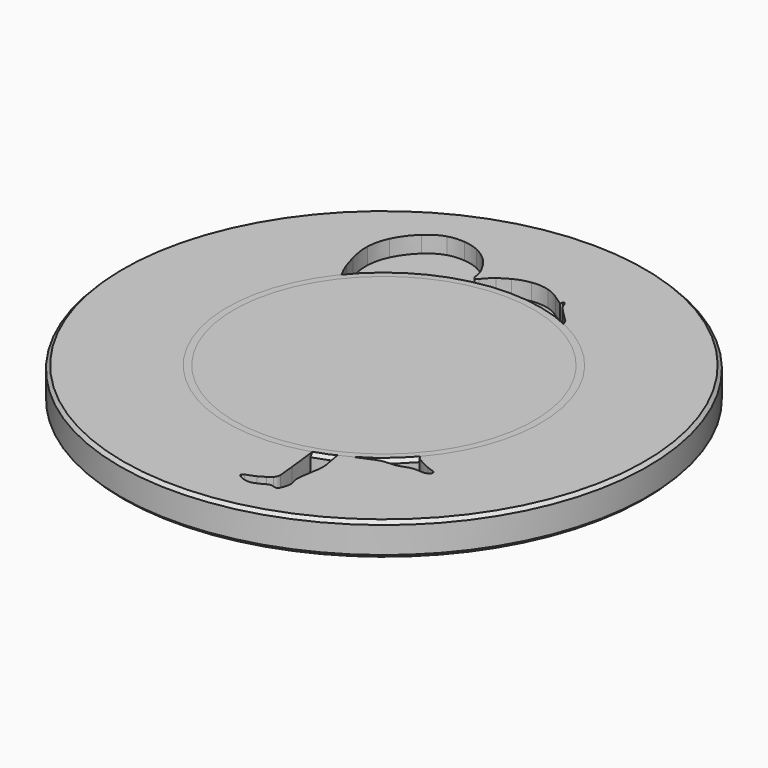
from build123d import *

# Parameters (mm, degrees)
POCKET_DEPTH = 1.25


with BuildPart() as obj1:
    # Sketch (on DatumPlane) → Revolution (revolve)
    with BuildSketch(Plane.YZ):
        Polygon((0, 0), (0, -2.5), (19.75, -2.5), (20, -2.25), (20, -0.25), (19.75, 0), align=None)
    revolve(axis=Axis((0, 0, 0), (0, 0, 1)))

    # Sketch015 → Pocket (cut)
    with BuildSketch(Plane.XY):
        with BuildLine():
            add(Edge.make_bspline(
                [(-7.398992, 15.221257), (-6.991904, 15.345717), (-6.559628, 15.359793), (-6.138094, 15.322566)],
                knots=[0, 0, 0, 0, 1, 1, 1, 1], degree=3))
            add(Edge.make_bspline(
                [(-6.138094, 15.322566), (-5.741933, 15.290525), (-5.350588, 15.189772), (-4.990913, 15.019936)],
                knots=[0, 0, 0, 0, 1, 1, 1, 1], degree=3))
            add(Edge.make_bspline(
                [(-4.990913, 15.019936), (-4.681245, 14.870472), (-4.394357, 14.677485), (-4.127287, 14.461532)],
                knots=[0, 0, 0, 0, 1, 1, 1, 1], degree=3))
            add(Edge.make_bspline(
                [(-4.127287, 14.461532), (-3.717977, 14.122786), (-3.422199, 13.671248), (-3.172353, 13.207857)],
                knots=[0, 0, 0, 0, 1, 1, 1, 1], degree=3))
            add(Edge.make_bspline(
                [(-3.172353, 13.207857), (-3.112531, 13.092658), (-3.044374, 12.980607), (-3.004184, 12.856517)],
                knots=[0, 0, 0, 0, 1, 1, 1, 1], degree=3))
            add(Edge.make_bspline(
                [(-3.004184, 12.856517), (-2.934731, 12.650936), (-2.918247, 12.433131), (-2.868426, 12.222919)],
                knots=[0, 0, 0, 0, 1, 1, 1, 1], degree=3))
            add(Edge.make_bspline(
                [(-2.868426, 12.222919), (-2.847683, 12.147169), (-2.823976, 12.055861), (-2.745818, 12.019931)],
                knots=[0, 0, 0, 0, 1, 1, 1, 1], degree=3))
            add(Edge.make_bspline(
                [(-2.745818, 12.019931), (-2.652658, 12.003262), (-2.580983, 12.08105), (-2.518197, 12.137724)],
                knots=[0, 0, 0, 0, 1, 1, 1, 1], degree=3))
            add(Edge.make_bspline(
                [(-2.518197, 12.137724), (-2.280204, 12.381087), (-2.087773, 12.671679), (-1.810146, 12.874482)],
                knots=[0, 0, 0, 0, 1, 1, 1, 1], degree=3))
            add(Edge.make_bspline(
                [(-1.810146, 12.874482), (-1.553817, 13.050615), (-1.286191, 13.210265), (-1.010046, 13.353616)],
                knots=[0, 0, 0, 0, 1, 1, 1, 1], degree=3))
            add(Edge.make_bspline(
                [(-1.010046, 13.353616), (-0.633147, 13.546048), (-0.226244, 13.682361), (0.194179, 13.737183)],
                knots=[0, 0, 0, 0, 1, 1, 1, 1], degree=3))
            add(Edge.make_bspline(
                [(0.194179, 13.737183), (0.628863, 13.806636), (1.077067, 13.777002), (1.499342, 13.652728)],
                knots=[0, 0, 0, 0, 1, 1, 1, 1], degree=3))
            add(Edge.make_bspline(
                [(1.499342, 13.652728), (1.851608, 13.566791), (2.167944, 13.381027), (2.467982, 13.182854)],
                knots=[0, 0, 0, 0, 1, 1, 1, 1], degree=3))
            add(Edge.make_bspline(
                [(2.467982, 13.182854), (2.717087, 13.024686), (2.94656, 12.837626), (3.19548, 12.679088)],
                knots=[0, 0, 0, 0, 1, 1, 1, 1], degree=3))
            add(Edge.make_bspline(
                [(3.19548, 12.679088), (3.217705, 12.752245), (3.212147, 12.830773), (3.236967, 12.90319)],
                knots=[0, 0, 0, 0, 1, 1, 1, 1], degree=3))
            add(Edge.make_bspline(
                [(3.236967, 12.90319), (3.256041, 12.938379), (3.302158, 12.936527), (3.333088, 12.918932)],
                knots=[0, 0, 0, 0, 1, 1, 1, 1], degree=3))
            add(Edge.make_bspline(
                [(3.333088, 12.918932), (3.383835, 12.89004), (3.426433, 12.844479), (3.446621, 12.788916)],
                knots=[0, 0, 0, 0, 1, 1, 1, 1], degree=3))
            add(Edge.make_bspline(
                [(3.446621, 12.788916), (3.507739, 12.634638), (3.559783, 12.472951), (3.660723, 12.338675)],
                knots=[0, 0, 0, 0, 1, 1, 1, 1], degree=3))
            add(Edge.make_bspline(
                [(3.660723, 12.338675), (3.914271, 12.037341), (4.210049, 11.7749), (4.481194, 11.489865)],
                knots=[0, 0, 0, 0, 1, 1, 1, 1], degree=3))
            add(Edge.make_bspline(
                [(4.481194, 11.489865), (4.579727, 11.384296), (4.69937, 11.300211), (4.791048, 11.18816)],
                knots=[0, 0, 0, 0, 1, 1, 1, 1], degree=3))
            add(Edge.make_bspline(
                [(4.791048, 11.18816), (4.924399, 11.026474), (4.979962, 10.818114), (5.014224, 10.615311)],
                knots=[0, 0, 0, 0, 1, 1, 1, 1], degree=3))
            add(Edge.make_bspline(
                [(5.014224, 10.615311), (5.050895, 10.38769), (5.084786, 10.158773), (5.092196, 9.928003)],
                knots=[0, 0, 0, 0, 1, 1, 1, 1], degree=3))
            add(Edge.make_bspline(
                [(5.092196, 9.928003), (5.134981, 9.13846), (5.152204, 8.347805), (5.199062, 7.558633)],
                knots=[0, 0, 0, 0, 1, 1, 1, 1], degree=3))
            add(Edge.make_bspline(
                [(5.199062, 7.558633), (5.204618, 7.428246), (5.244808, 7.300638), (5.310001, 7.187846)],
                knots=[0, 0, 0, 0, 1, 1, 1, 1], degree=3))
            add(Edge.make_bspline(
                [(5.310001, 7.187846), (5.334451, 7.145063), (5.37964, 7.106539), (5.432609, 7.118578)],
                knots=[0, 0, 0, 0, 1, 1, 1, 1], degree=3))
            add(Edge.make_bspline(
                [(5.432609, 7.118578), (5.520398, 7.138395), (5.59763, 7.188957), (5.684307, 7.213775)],
                knots=[0, 0, 0, 0, 1, 1, 1, 1], degree=3))
            add(Edge.make_bspline(
                [(5.684307, 7.213775), (5.808584, 7.266374), (5.95286, 7.30286), (6.036388, 7.417504)],
                knots=[0, 0, 0, 0, 1, 1, 1, 1], degree=3))
            add(Edge.make_bspline(
                [(6.036388, 7.417504), (6.068615, 7.459917), (6.123623, 7.478993), (6.175665, 7.466584)],
                knots=[0, 0, 0, 0, 1, 1, 1, 1], degree=3))
            add(Edge.make_bspline(
                [(6.175665, 7.466584), (6.354576, 7.437877), (6.528117, 7.382314), (6.697584, 7.318788)],
                knots=[0, 0, 0, 0, 1, 1, 1, 1], degree=3))
            add(Edge.make_bspline(
                [(6.697584, 7.318788), (6.892977, 7.243593), (7.088003, 7.154693), (7.245986, 7.01412)],
                knots=[0, 0, 0, 0, 1, 1, 1, 1], degree=3))
            add(Edge.make_bspline(
                [(7.245986, 7.01412), (7.566952, 6.734456), (7.763828, 6.342925), (7.899401, 5.946024)],
                knots=[0, 0, 0, 0, 1, 1, 1, 1], degree=3))
            add(Edge.make_bspline(
                [(7.899401, 5.946024), (7.990336, 5.647098), (8.002747, 5.32965), (7.989783, 5.019426)],
                knots=[0, 0, 0, 0, 1, 1, 1, 1], degree=3))
            add(Edge.make_bspline(
                [(7.989783, 5.019426), (7.989227, 4.88052), (7.934405, 4.749948), (7.921811, 4.612339)],
                knots=[0, 0, 0, 0, 1, 1, 1, 1], degree=3))
            add(Edge.make_bspline(
                [(7.921811, 4.612339), (7.904772, 4.47547), (7.937183, 4.339712), (7.949592, 4.203954)],
                knots=[0, 0, 0, 0, 1, 1, 1, 1], degree=3))
            add(Edge.make_bspline(
                [(7.949592, 4.203954), (7.966076, 3.998929), (7.93422, 3.794644), (7.915699, 3.590915)],
                knots=[0, 0, 0, 0, 1, 1, 1, 1], degree=3))
            add(Edge.make_bspline(
                [(7.915699, 3.590915), (7.882362, 3.282172), (7.846985, 2.9738), (7.807351, 2.665799)],
                knots=[0, 0, 0, 0, 1, 1, 1, 1], degree=3))
            add(Edge.make_bspline(
                [(7.807351, 2.665799), (7.793277, 2.534857), (7.736788, 2.410952), (7.737529, 2.277973)],
                knots=[0, 0, 0, 0, 1, 1, 1, 1], degree=3))
            add(Edge.make_bspline(
                [(7.737529, 2.277973), (7.736973, 2.108878), (7.775865, 1.939412), (7.852543, 1.788467)],
                knots=[0, 0, 0, 0, 1, 1, 1, 1], degree=3))
            add(Edge.make_bspline(
                [(7.852543, 1.788467), (7.899771, 1.686973), (7.984967, 1.611593), (8.061088, 1.531954)],
                knots=[0, 0, 0, 0, 1, 1, 1, 1], degree=3))
            add(Edge.make_bspline(
                [(8.061088, 1.531954), (8.220552, 1.370822), (8.392055, 1.221174), (8.542815, 1.051153)],
                knots=[0, 0, 0, 0, 1, 1, 1, 1], degree=3))
            add(Edge.make_bspline(
                [(8.542815, 1.051153), (8.573557, 1.014296), (8.607267, 0.975032), (8.614861, 0.925581)],
                knots=[0, 0, 0, 0, 1, 1, 1, 1], degree=3))
            add(Edge.make_bspline(
                [(8.614861, 0.925581), (8.610416, 0.874464), (8.555777, 0.852793), (8.510959, 0.856312)],
                knots=[0, 0, 0, 0, 1, 1, 1, 1], degree=3))
            add(Edge.make_bspline(
                [(8.510959, 0.856312), (8.361309, 0.864276), (8.216478, 0.930025), (8.065533, 0.911504)],
                knots=[0, 0, 0, 0, 1, 1, 1, 1], degree=3))
            add(Edge.make_bspline(
                [(8.065533, 0.911504), (8.024787, 0.909096), (7.996635, 0.872795), (7.998302, 0.833346)],
                knots=[0, 0, 0, 0, 1, 1, 1, 1], degree=3))
            add(Edge.make_bspline(
                [(7.998302, 0.833346), (7.983671, 0.577758), (8.079609, 0.327542), (8.052752, 0.071584)],
                knots=[0, 0, 0, 0, 1, 1, 1, 1], degree=3))
            add(Edge.make_bspline(
                [(8.052752, 0.071584), (8.045714, 0.008613), (8.004783, -0.058803), (7.936996, -0.067322)],
                knots=[0, 0, 0, 0, 1, 1, 1, 1], degree=3))
            add(Edge.make_bspline(
                [(7.936996, -0.067322), (7.80939, -0.082695), (7.690856, -0.019539), (7.577879, 0.030283)],
                knots=[0, 0, 0, 0, 1, 1, 1, 1], degree=3))
            add(Edge.make_bspline(
                [(7.577879, 0.030283), (7.463048, 0.080289), (7.358591, 0.156039), (7.236538, 0.187524)],
                knots=[0, 0, 0, 0, 1, 1, 1, 1], degree=3))
            add(Edge.make_bspline(
                [(7.236538, 0.187524), (7.227463, 0.099736), (7.259504, 0.013429), (7.247094, -0.074175)],
                knots=[0, 0, 0, 0, 1, 1, 1, 1], degree=3))
            add(Edge.make_bspline(
                [(7.247094, -0.074175), (7.240056, -0.116402), (7.202831, -0.151962), (7.158936, -0.14937)],
                knots=[0, 0, 0, 0, 1, 1, 1, 1], degree=3))
            add(Edge.make_bspline(
                [(7.158936, -0.14937), (7.060589, -0.141406), (6.966134, -0.109735), (6.872417, -0.081583)],
                knots=[0, 0, 0, 0, 1, 1, 1, 1], degree=3))
            add(Edge.make_bspline(
                [(6.872417, -0.081583), (6.675726, -0.017131), (6.48237, 0.059175), (6.301235, 0.159558)],
                knots=[0, 0, 0, 0, 1, 1, 1, 1], degree=3))
            add(Edge.make_bspline(
                [(6.301235, 0.159558), (6.169181, 0.231419), (6.03898, 0.313096), (5.938965, 0.427184)],
                knots=[0, 0, 0, 0, 1, 1, 1, 1], degree=3))
            add(Edge.make_bspline(
                [(5.938965, 0.427184), (5.723938, 0.665918), (5.598554, 0.966696), (5.472798, 1.258029)],
                knots=[0, 0, 0, 0, 1, 1, 1, 1], degree=3))
            add(Edge.make_bspline(
                [(5.472798, 1.258029), (5.436865, 1.335816), (5.418902, 1.419901), (5.399824, 1.502689)],
                knots=[0, 0, 0, 0, 1, 1, 1, 1], degree=3))
            add(Edge.make_bspline(
                [(5.399824, 1.502689), (5.214062, 1.121345), (5.059042, 0.72611), (4.895872, 0.33458)],
                knots=[0, 0, 0, 0, 1, 1, 1, 1], degree=3))
            add(Edge.make_bspline(
                [(4.895872, 0.33458), (4.780487, 0.057879), (4.674916, -0.222897), (4.566201, -0.502377)],
                knots=[0, 0, 0, 0, 1, 1, 1, 1], degree=3))
            add(Edge.make_bspline(
                [(4.566201, -0.502377), (4.478412, -0.735184), (4.388959, -0.968361), (4.327469, -1.209687)],
                knots=[0, 0, 0, 0, 1, 1, 1, 1], degree=3))
            add(Edge.make_bspline(
                [(4.327469, -1.209687), (4.297834, -1.397674), (4.338582, -1.59029), (4.412665, -1.76346)],
                knots=[0, 0, 0, 0, 1, 1, 1, 1], degree=3))
            add(Edge.make_bspline(
                [(4.412665, -1.76346), (4.469709, -1.893847), (4.527865, -2.02553), (4.614726, -2.139433)],
                knots=[0, 0, 0, 0, 1, 1, 1, 1], degree=3))
            add(Edge.make_bspline(
                [(4.614726, -2.139433), (4.860497, -2.476512), (5.14146, -2.785995), (5.394084, -3.118074)],
                knots=[0, 0, 0, 0, 1, 1, 1, 1], degree=3))
            add(Edge.make_bspline(
                [(5.394084, -3.118074), (5.628741, -3.416445), (5.755426, -3.803898), (5.71968, -4.183761)],
                knots=[0, 0, 0, 0, 1, 1, 1, 1], degree=3))
            add(Edge.make_bspline(
                [(5.71968, -4.183761), (5.645412, -4.757721), (5.496875, -5.318717), (5.404087, -5.889346)],
                knots=[0, 0, 0, 0, 1, 1, 1, 1], degree=3))
            add(Edge.make_bspline(
                [(5.404087, -5.889346), (5.377788, -5.988803), (5.464649, -6.058625), (5.502616, -6.140116)],
                knots=[0, 0, 0, 0, 1, 1, 1, 1], degree=3))
            add(Edge.make_bspline(
                [(5.502616, -6.140116), (5.525952, -6.182344), (5.504468, -6.246796), (5.453166, -6.253834)],
                knots=[0, 0, 0, 0, 1, 1, 1, 1], degree=3))
            add(Edge.make_bspline(
                [(5.453166, -6.253834), (5.287404, -6.270688), (5.120717, -6.214755), (4.956252, -6.247352)],
                knots=[0, 0, 0, 0, 1, 1, 1, 1], degree=3))
            add(Edge.make_bspline(
                [(4.956252, -6.247352), (4.903652, -6.251241), (4.886613, -6.309026), (4.894392, -6.353661)],
                knots=[0, 0, 0, 0, 1, 1, 1, 1], degree=3))
            add(Edge.make_bspline(
                [(4.894392, -6.353661), (4.909022, -6.484602), (4.970883, -6.608693), (4.96051, -6.742969)],
                knots=[0, 0, 0, 0, 1, 1, 1, 1], degree=3))
            add(Edge.make_bspline(
                [(4.96051, -6.742969), (4.932543, -7.194322), (4.86346, -7.642339), (4.848275, -8.09462)],
                knots=[0, 0, 0, 0, 1, 1, 1, 1], degree=3))
            add(Edge.make_bspline(
                [(4.848275, -8.09462), (4.84346, -8.293534), (4.793822, -8.488373), (4.792527, -8.687472)],
                knots=[0, 0, 0, 0, 1, 1, 1, 1], degree=3))
            add(Edge.make_bspline(
                [(4.792527, -8.687472), (4.793454, -8.778963), (4.815493, -8.890645), (4.907542, -8.933428)],
                knots=[0, 0, 0, 0, 1, 1, 1, 1], degree=3))
            add(Edge.make_bspline(
                [(4.907542, -8.933428), (4.999776, -8.968616), (5.102011, -8.952503), (5.197208, -8.938612)],
                knots=[0, 0, 0, 0, 1, 1, 1, 1], degree=3))
            add(Edge.make_bspline(
                [(5.197208, -8.938612), (5.488355, -8.888793), (5.770983, -8.793781), (6.065464, -8.762111)],
                knots=[0, 0, 0, 0, 1, 1, 1, 1], degree=3))
            add(Edge.make_bspline(
                [(6.065464, -8.762111), (6.516447, -8.715623), (6.969464, -8.693028), (7.420263, -8.643948)],
                knots=[0, 0, 0, 0, 1, 1, 1, 1], degree=3))
            add(Edge.make_bspline(
                [(7.420263, -8.643948), (7.578429, -8.625981), (7.737525, -8.608758), (7.892545, -8.571159)],
                knots=[0, 0, 0, 0, 1, 1, 1, 1], degree=3))
            add(Edge.make_bspline(
                [(7.892545, -8.571159), (8.01719, -8.541526), (8.109794, -8.444476), (8.191286, -8.351687)],
                knots=[0, 0, 0, 0, 1, 1, 1, 1], degree=3))
            add(Edge.make_bspline(
                [(8.191286, -8.351687), (8.268886, -8.259268), (8.334822, -8.157404), (8.39057, -8.050538)],
                knots=[0, 0, 0, 0, 1, 1, 1, 1], degree=3))
            add(Edge.make_bspline(
                [(8.39057, -8.050538), (8.432795, -7.969232), (8.395383, -7.86107), (8.464097, -7.791247)],
                knots=[0, 0, 0, 0, 1, 1, 1, 1], degree=3))
            add(Edge.make_bspline(
                [(8.464097, -7.791247), (8.536697, -7.727718), (8.638932, -7.719386), (8.731166, -7.711424)],
                knots=[0, 0, 0, 0, 1, 1, 1, 1], degree=3))
            add(Edge.make_bspline(
                [(8.731166, -7.711424), (8.822661, -7.708646), (8.933228, -7.716978), (8.991199, -7.799027)],
                knots=[0, 0, 0, 0, 1, 1, 1, 1], degree=3))
            add(Edge.make_bspline(
                [(8.991199, -7.799027), (9.043057, -7.877), (9.06343, -7.978865), (9.1477, -8.03239)],
                knots=[0, 0, 0, 0, 1, 1, 1, 1], degree=3))
            add(Edge.make_bspline(
                [(9.1477, -8.03239), (9.469223, -8.266678), (9.830009, -8.442811), (10.198018, -8.591163)],
                knots=[0, 0, 0, 0, 1, 1, 1, 1], degree=3))
            add(Edge.make_bspline(
                [(10.198018, -8.591163), (10.35952, -8.652651), (10.514909, -8.733401), (10.68456, -8.771001)],
                knots=[0, 0, 0, 0, 1, 1, 1, 1], degree=3))
            add(Edge.make_bspline(
                [(10.68456, -8.771001), (10.741417, -8.786558), (10.806427, -8.804153), (10.839024, -8.858234)],
                knots=[0, 0, 0, 0, 1, 1, 1, 1], degree=3))
            add(Edge.make_bspline(
                [(10.839024, -8.858234), (10.896809, -8.958617), (10.874214, -9.10845), (10.7692, -9.168828)],
                knots=[0, 0, 0, 0, 1, 1, 1, 1], degree=3))
            add(Edge.make_bspline(
                [(10.7692, -9.168828), (10.673633, -9.224761), (10.564916, -9.257358), (10.456198, -9.274767)],
                knots=[0, 0, 0, 0, 1, 1, 1, 1], degree=3))
            add(Edge.make_bspline(
                [(10.456198, -9.274767), (10.20913, -9.287919), (9.962618, -9.238652), (9.71555, -9.260691)],
                knots=[0, 0, 0, 0, 1, 1, 1, 1], degree=3))
            add(Edge.make_bspline(
                [(9.71555, -9.260691), (9.351431, -9.286621), (9.018056, -9.448122), (8.672829, -9.55147)],
                knots=[0, 0, 0, 0, 1, 1, 1, 1], degree=3))
            add(Edge.make_bspline(
                [(8.672829, -9.55147), (8.559296, -9.584621), (8.440206, -9.585549), (8.323156, -9.592029)],
                knots=[0, 0, 0, 0, 1, 1, 1, 1], degree=3))
            add(Edge.make_bspline(
                [(8.323156, -9.592029), (8.08831, -9.615365), (7.851428, -9.619071), (7.618623, -9.659815)],
                knots=[0, 0, 0, 0, 1, 1, 1, 1], degree=3))
            add(Edge.make_bspline(
                [(7.618623, -9.659815), (7.280988, -9.713896), (6.976876, -9.878545), (6.666095, -10.011526)],
                knots=[0, 0, 0, 0, 1, 1, 1, 1], degree=3))
            add(Edge.make_bspline(
                [(6.666095, -10.011526), (6.283827, -10.184138), (5.882666, -10.308972), (5.492615, -10.462138)],
                knots=[0, 0, 0, 0, 1, 1, 1, 1], degree=3))
            add(Edge.make_bspline(
                [(5.492615, -10.462138), (5.359265, -10.514739), (5.222396, -10.559928), (5.094602, -10.625121)],
                knots=[0, 0, 0, 0, 1, 1, 1, 1], degree=3))
            add(Edge.make_bspline(
                [(5.094602, -10.625121), (5.029779, -10.649382), (5.04793, -10.731616), (5.072192, -10.780326)],
                knots=[0, 0, 0, 0, 1, 1, 1, 1], degree=3))
            add(Edge.make_bspline(
                [(5.072192, -10.780326), (5.165537, -11.222048), (5.255178, -11.665805), (5.307592, -12.114752)],
                knots=[0, 0, 0, 0, 1, 1, 1, 1], degree=3))
            add(Edge.make_bspline(
                [(5.307592, -12.114752), (5.356672, -12.504243), (5.305369, -12.897072), (5.231286, -13.280081)],
                knots=[0, 0, 0, 0, 1, 1, 1, 1], degree=3))
            add(Edge.make_bspline(
                [(5.231286, -13.280081), (5.187762, -13.501221), (5.169056, -13.725879), (5.13257, -13.948129)],
                knots=[0, 0, 0, 0, 1, 1, 1, 1], degree=3))
            add(Edge.make_bspline(
                [(5.13257, -13.948129), (5.092935, -14.201122), (5.048671, -14.458006), (5.079415, -14.714705)],
                knots=[0, 0, 0, 0, 1, 1, 1, 1], degree=3))
            add(Edge.make_bspline(
                [(5.079415, -14.714705), (5.105159, -14.900469), (5.180724, -15.074751), (5.209985, -15.259775)],
                knots=[0, 0, 0, 0, 1, 1, 1, 1], degree=3))
            add(Edge.make_bspline(
                [(5.209985, -15.259775), (5.232768, -15.503694), (5.161646, -15.745946), (5.066819, -15.968567)],
                knots=[0, 0, 0, 0, 1, 1, 1, 1], degree=3))
            add(Edge.make_bspline(
                [(5.066819, -15.968567), (5.023295, -16.064875), (4.985883, -16.177482), (4.887539, -16.232118)],
                knots=[0, 0, 0, 0, 1, 1, 1, 1], degree=3))
            add(Edge.make_bspline(
                [(4.887539, -16.232118), (4.81438, -16.275085), (4.728444, -16.245453), (4.653066, -16.226194)],
                knots=[0, 0, 0, 0, 1, 1, 1, 1], degree=3))
            add(Edge.make_bspline(
                [(4.653066, -16.226194), (4.527124, -16.188967), (4.39433, -16.153034), (4.26283, -16.182299)],
                knots=[0, 0, 0, 0, 1, 1, 1, 1], degree=3))
            add(Edge.make_bspline(
                [(4.26283, -16.182299), (4.091512, -16.225638), (3.960199, -16.354356), (3.796847, -16.416586)],
                knots=[0, 0, 0, 0, 1, 1, 1, 1], degree=3))
            add(Edge.make_bspline(
                [(3.796847, -16.416586), (3.593489, -16.492153), (3.401428, -16.603092), (3.185475, -16.639391)],
                knots=[0, 0, 0, 0, 1, 1, 1, 1], degree=3))
            add(Edge.make_bspline(
                [(3.185475, -16.639391), (2.996563, -16.675509), (2.805242, -16.627723), (2.62522, -16.572716)],
                knots=[0, 0, 0, 0, 1, 1, 1, 1], degree=3))
            add(Edge.make_bspline(
                [(2.62522, -16.572716), (2.485017, -16.525116), (2.342036, -16.472704), (2.225355, -16.379174)],
                knots=[0, 0, 0, 0, 1, 1, 1, 1], degree=3))
            add(Edge.make_bspline(
                [(2.225355, -16.379174), (2.177757, -16.339908), (2.12775, -16.280641), (2.147938, -16.214892)],
                knots=[0, 0, 0, 0, 1, 1, 1, 1], degree=3))
            add(Edge.make_bspline(
                [(2.147938, -16.214892), (2.174238, -16.14507), (2.247024, -16.110805), (2.310181, -16.081172)],
                knots=[0, 0, 0, 0, 1, 1, 1, 1], degree=3))
            add(Edge.make_bspline(
                [(2.310181, -16.081172), (2.542247, -15.98227), (2.792093, -15.925967), (3.014528, -15.804472)],
                knots=[0, 0, 0, 0, 1, 1, 1, 1], degree=3))
            add(Edge.make_bspline(
                [(3.014528, -15.804472), (3.185105, -15.71057), (3.354015, -15.613521), (3.519961, -15.511471)],
                knots=[0, 0, 0, 0, 1, 1, 1, 1], degree=3))
            add(Edge.make_bspline(
                [(3.519961, -15.511471), (3.634607, -15.439241), (3.752397, -15.365712), (3.839445, -15.259773)],
                knots=[0, 0, 0, 0, 1, 1, 1, 1], degree=3))
            add(Edge.make_bspline(
                [(3.839445, -15.259773), (3.946496, -15.139202), (4.023359, -14.980666), (4.010578, -14.816386)],
                knots=[0, 0, 0, 0, 1, 1, 1, 1], degree=3))
            add(Edge.make_bspline(
                [(4.010578, -14.816386), (3.99039, -14.405221), (3.936495, -13.996654), (3.891306, -13.587712)],
                knots=[0, 0, 0, 0, 1, 1, 1, 1], degree=3))
            add(Edge.make_bspline(
                [(3.891306, -13.587712), (3.781475, -12.708528), (3.709246, -11.824529), (3.587934, -10.947199)],
                knots=[0, 0, 0, 0, 1, 1, 1, 1], degree=3))
            add(Edge.make_bspline(
                [(3.587934, -10.947199), (3.33957, -10.964979), (3.088243, -11.013316), (2.840063, -10.968312)],
                knots=[0, 0, 0, 0, 1, 1, 1, 1], degree=3))
            add(Edge.make_bspline(
                [(2.840063, -10.968312), (2.694119, -10.944791), (2.567622, -10.853481), (2.475203, -10.741617)],
                knots=[0, 0, 0, 0, 1, 1, 1, 1], degree=3))
            add(Edge.make_bspline(
                [(2.475203, -10.741617), (2.355929, -10.595118), (2.292958, -10.413611), (2.239433, -10.235071)],
                knots=[0, 0, 0, 0, 1, 1, 1, 1], degree=3))
            add(Edge.make_bspline(
                [(2.239433, -10.235071), (2.182203, -10.064679), (2.199243, -9.882436), (2.192946, -9.705932)],
                knots=[0, 0, 0, 0, 1, 1, 1, 1], degree=3))
            add(Edge.make_bspline(
                [(2.192946, -9.705932), (2.194242, -8.643392), (2.24999, -7.582148), (2.266288, -6.519979)],
                knots=[0, 0, 0, 0, 1, 1, 1, 1], degree=3))
            add(Edge.make_bspline(
                [(2.266288, -6.519979), (2.265918, -6.424596), (2.269066, -6.328658), (2.257954, -6.234019)],
                knots=[0, 0, 0, 0, 1, 1, 1, 1], degree=3))
            add(Edge.make_bspline(
                [(2.257954, -6.234019), (2.23684, -6.124188), (2.137013, -6.05918), (2.064596, -5.983802)],
                knots=[0, 0, 0, 0, 1, 1, 1, 1], degree=3))
            add(Edge.make_bspline(
                [(2.064596, -5.983802), (1.990513, -5.911941), (1.941062, -5.807854), (1.960879, -5.703397)],
                knots=[0, 0, 0, 0, 1, 1, 1, 1], degree=3))
            add(Edge.make_bspline(
                [(1.960879, -5.703397), (1.993106, -5.461885), (2.061818, -5.227595), (2.113491, -4.989974)],
                knots=[0, 0, 0, 0, 1, 1, 1, 1], degree=3))
            add(Edge.make_bspline(
                [(2.113491, -4.989974), (2.14368, -4.847551), (2.183685, -4.704754), (2.183315, -4.558439)],
                knots=[0, 0, 0, 0, 1, 1, 1, 1], degree=3))
            add(Edge.make_bspline(
                [(2.183315, -4.558439), (2.171648, -4.436201), (2.055893, -4.369714), (1.973474, -4.295258)],
                knots=[0, 0, 0, 0, 1, 1, 1, 1], degree=3))
            add(Edge.make_bspline(
                [(1.973474, -4.295258), (1.844754, -4.187654), (1.797711, -4.014852), (1.786784, -3.853721)],
                knots=[0, 0, 0, 0, 1, 1, 1, 1], degree=3))
            add(Edge.make_bspline(
                [(1.786784, -3.853721), (1.779746, -3.736853), (1.776227, -3.619803), (1.779375, -3.502935)],
                knots=[0, 0, 0, 0, 1, 1, 1, 1], degree=3))
            add(Edge.make_bspline(
                [(1.779375, -3.502935), (1.798452, -3.286241), (1.840679, -3.068066), (1.806416, -2.850631)],
                knots=[0, 0, 0, 0, 1, 1, 1, 1], degree=3))
            add(Edge.make_bspline(
                [(1.806416, -2.850631), (1.766596, -2.615046), (1.68992, -2.387981), (1.631579, -2.156841)],
                knots=[0, 0, 0, 0, 1, 1, 1, 1], degree=3))
            add(Edge.make_bspline(
                [(1.631579, -2.156841), (1.568608, -1.929035), (1.586573, -1.686782), (1.63232, -1.457494)],
                knots=[0, 0, 0, 0, 1, 1, 1, 1], degree=3))
            add(Edge.make_bspline(
                [(1.63232, -1.457494), (1.648435, -1.362853), (1.710478, -1.285806), (1.736777, -1.194869)],
                knots=[0, 0, 0, 0, 1, 1, 1, 1], degree=3))
            add(Edge.make_bspline(
                [(1.736777, -1.194869), (1.769559, -1.047999), (1.686401, -0.905018), (1.706403, -0.758333)],
                knots=[0, 0, 0, 0, 1, 1, 1, 1], degree=3))
            add(Edge.make_bspline(
                [(1.706403, -0.758333), (1.723442, -0.68073), (1.816973, -0.666655), (1.852533, -0.604425)],
                knots=[0, 0, 0, 0, 1, 1, 1, 1], degree=3))
            add(Edge.make_bspline(
                [(1.852533, -0.604425), (1.8592, -0.5246), (1.8016, -0.452369), (1.813083, -0.371247)],
                knots=[0, 0, 0, 0, 1, 1, 1, 1], degree=3))
            add(Edge.make_bspline(
                [(1.813083, -0.371247), (1.826418, -0.248639), (1.941247, -0.170111), (1.965324, -0.051207)],
                knots=[0, 0, 0, 0, 1, 1, 1, 1], degree=3))
            add(Edge.make_bspline(
                [(1.965324, -0.051207), (1.989402, 0.068808), (1.943099, 0.189934), (1.963658, 0.310319)],
                knots=[0, 0, 0, 0, 1, 1, 1, 1], degree=3))
            add(Edge.make_bspline(
                [(1.963658, 0.310319), (1.996995, 0.544608), (2.040519, 0.77797), (2.097934, 1.007629)],
                knots=[0, 0, 0, 0, 1, 1, 1, 1], degree=3))
            add(Edge.make_bspline(
                [(2.097934, 1.007629), (2.107194, 1.065969), (2.165164, 1.08912), (2.213133, 1.108567)],
                knots=[0, 0, 0, 0, 1, 1, 1, 1], degree=3))
            add(Edge.make_bspline(
                [(2.213133, 1.108567), (2.113862, 1.25803), (1.998662, 1.398604), (1.925875, 1.563809)],
                knots=[0, 0, 0, 0, 1, 1, 1, 1], degree=3))
            add(Edge.make_bspline(
                [(1.925875, 1.563809), (1.847532, 1.735683), (1.760854, 1.915335), (1.777523, 2.109618)],
                knots=[0, 0, 0, 0, 1, 1, 1, 1], degree=3))
            add(Edge.make_bspline(
                [(1.777523, 2.109618), (1.796414, 2.373911), (1.988105, 2.575973), (2.075894, 2.816003)],
                knots=[0, 0, 0, 0, 1, 1, 1, 1], degree=3))
            add(Edge.make_bspline(
                [(2.075894, 2.816003), (1.639358, 2.751736), (1.207637, 2.656909), (0.76999, 2.599494)],
                knots=[0, 0, 0, 0, 1, 1, 1, 1], degree=3))
            add(Edge.make_bspline(
                [(0.76999, 2.599494), (0.572187, 2.566342), (0.373274, 2.634314), (0.175471, 2.600235)],
                knots=[0, 0, 0, 0, 1, 1, 1, 1], degree=3))
            add(Edge.make_bspline(
                [(0.175471, 2.600235), (-0.006033, 2.570602), (-0.16309, 2.468737), (-0.326258, 2.390765)],
                knots=[0, 0, 0, 0, 1, 1, 1, 1], degree=3))
            add(Edge.make_bspline(
                [(-0.326258, 2.390765), (-0.53647, 2.282418), (-0.765017, 2.218336), (-0.988561, 2.144623)],
                knots=[0, 0, 0, 0, 1, 1, 1, 1], degree=3))
            add(Edge.make_bspline(
                [(-0.988561, 2.144623), (-1.443433, 1.998679), (-1.914788, 1.905148), (-2.390774, 1.865329)],
                knots=[0, 0, 0, 0, 1, 1, 1, 1], degree=3))
            add(Edge.make_bspline(
                [(-2.390774, 1.865329), (-2.86787, 1.819582), (-3.346819, 1.798098), (-3.824286, 1.759575)],
                knots=[0, 0, 0, 0, 1, 1, 1, 1], degree=3))
            add(Edge.make_bspline(
                [(-3.824286, 1.759575), (-4.188221, 1.757723), (-4.554933, 1.726237), (-4.91646, 1.779948)],
                knots=[0, 0, 0, 0, 1, 1, 1, 1], degree=3))
            add(Edge.make_bspline(
                [(-4.91646, 1.779948), (-5.09037, 1.811064), (-5.264837, 1.841622), (-5.434858, 1.890146)],
                knots=[0, 0, 0, 0, 1, 1, 1, 1], degree=3))
            add(Edge.make_bspline(
                [(-5.434858, 1.890146), (-5.57432, 1.931263), (-5.716189, 1.990529), (-5.813979, 2.102395)],
                knots=[0, 0, 0, 0, 1, 1, 1, 1], degree=3))
            add(Edge.make_bspline(
                [(-5.813979, 2.102395), (-5.90325, 2.205556), (-5.976037, 2.323719), (-6.02345, 2.451513)],
                knots=[0, 0, 0, 0, 1, 1, 1, 1], degree=3))
            add(Edge.make_bspline(
                [(-6.02345, 2.451513), (-6.043082, 2.510594), (-6.062158, 2.576714), (-6.038822, 2.637462)],
                knots=[0, 0, 0, 0, 1, 1, 1, 1], degree=3))
            add(Edge.make_bspline(
                [(-6.038822, 2.637462), (-6.017153, 2.681727), (-5.962146, 2.695062), (-5.916955, 2.685246)],
                knots=[0, 0, 0, 0, 1, 1, 1, 1], degree=3))
            add(Edge.make_bspline(
                [(-5.916955, 2.685246), (-5.75712, 2.658576), (-5.613399, 2.57801), (-5.459491, 2.530782)],
                knots=[0, 0, 0, 0, 1, 1, 1, 1], degree=3))
            add(Edge.make_bspline(
                [(-5.459491, 2.530782), (-5.38337, 2.512076), (-5.306508, 2.495407), (-5.229647, 2.478553)],
                knots=[0, 0, 0, 0, 1, 1, 1, 1], degree=3))
            add(Edge.make_bspline(
                [(-5.229647, 2.478553), (-5.97863, 3.200681), (-6.743355, 3.913177), (-7.396214, 4.726242)],
                knots=[0, 0, 0, 0, 1, 1, 1, 1], degree=3))
            add(Edge.make_bspline(
                [(-7.396214, 4.726242), (-7.857198, 5.327428), (-8.289103, 5.951024), (-8.692302, 6.592586)],
                knots=[0, 0, 0, 0, 1, 1, 1, 1], degree=3))
            add(Edge.make_bspline(
                [(-8.692302, 6.592586), (-9.087166, 7.233407), (-9.458694, 7.894045), (-9.723172, 8.6008)],
                knots=[0, 0, 0, 0, 1, 1, 1, 1], degree=3))
            add(Edge.make_bspline(
                [(-9.723172, 8.6008), (-9.838927, 8.937509), (-9.94394, 9.278292), (-10.037285, 9.621854)],
                knots=[0, 0, 0, 0, 1, 1, 1, 1], degree=3))
            add(Edge.make_bspline(
                [(-10.037285, 9.621854), (-10.176562, 10.155809), (-10.28139, 10.705508), (-10.260461, 11.259651)],
                knots=[0, 0, 0, 0, 1, 1, 1, 1], degree=3))
            add(Edge.make_bspline(
                [(-10.260461, 11.259651), (-10.237495, 11.815831), (-10.108961, 12.371086), (-9.864671, 12.87263)],
                knots=[0, 0, 0, 0, 1, 1, 1, 1], degree=3))
            add(Edge.make_bspline(
                [(-9.864671, 12.87263), (-9.583525, 13.461407), (-9.180696, 13.988881), (-8.706007, 14.434862)],
                knots=[0, 0, 0, 0, 1, 1, 1, 1], degree=3))
            add(Edge.make_bspline(
                [(-8.706007, 14.434862), (-8.332072, 14.783795), (-7.893128, 15.076054), (-7.398992, 15.221257)],
                knots=[0, 0, 0, 0, 1, 1, 1, 1], degree=3))
        make_face()
        with BuildLine():
            add(Edge.make_bspline(
                [(4.117817, 10.827189), (4.116706, 10.631609), (4.11152, 10.436029), (4.102632, 10.240635)],
                knots=[0, 0, 0, 0, 1, 1, 1, 1], degree=3))
            add(Edge.make_bspline(
                [(4.102632, 10.240635), (4.074851, 9.743906), (4.035772, 9.245325), (3.928166, 8.758412)],
                knots=[0, 0, 0, 0, 1, 1, 1, 1], degree=3))
            add(Edge.make_bspline(
                [(3.928166, 8.758412), (3.878159, 8.525235), (3.797594, 8.300392), (3.710361, 8.079068)],
                knots=[0, 0, 0, 0, 1, 1, 1, 1], degree=3))
            add(Edge.make_bspline(
                [(3.710361, 8.079068), (3.552193, 7.681981), (3.339944, 7.306194), (3.073985, 6.971152)],
                knots=[0, 0, 0, 0, 1, 1, 1, 1], degree=3))
            add(Edge.make_bspline(
                [(3.073985, 6.971152), (2.825806, 6.660372), (2.563551, 6.358298), (2.260921, 6.098821)],
                knots=[0, 0, 0, 0, 1, 1, 1, 1], degree=3))
            add(Edge.make_bspline(
                [(2.260921, 6.098821), (1.920323, 5.801376), (1.563611, 5.523008), (1.203196, 5.250011)],
                knots=[0, 0, 0, 0, 1, 1, 1, 1], degree=3))
            add(Edge.make_bspline(
                [(1.203196, 5.250011), (0.517925, 4.736799), (-0.180681, 4.24044), (-0.903734, 3.781864)],
                knots=[0, 0, 0, 0, 1, 1, 1, 1], degree=3))
            add(Edge.make_bspline(
                [(-0.903734, 3.781864), (-1.26878, 3.548872), (-1.654939, 3.35107), (-2.047025, 3.167714)],
                knots=[0, 0, 0, 0, 1, 1, 1, 1], degree=3))
            add(Edge.make_bspline(
                [(-2.047025, 3.167714), (-2.563571, 2.921016), (-3.094749, 2.70673), (-3.618518, 2.476146)],
                knots=[0, 0, 0, 0, 1, 1, 1, 1], degree=3))
            add(Edge.make_bspline(
                [(-3.618518, 2.476146), (-3.38886, 2.493), (-3.163091, 2.543932), (-2.938988, 2.595049)],
                knots=[0, 0, 0, 0, 1, 1, 1, 1], degree=3))
            add(Edge.make_bspline(
                [(-2.938988, 2.595049), (-2.634321, 2.662095), (-2.356508, 2.80878), (-2.074621, 2.9375)],
                knots=[0, 0, 0, 0, 1, 1, 1, 1], degree=3))
            add(Edge.make_bspline(
                [(-2.074621, 2.9375), (-1.889413, 3.021214), (-1.70865, 3.114744), (-1.520107, 3.19142)],
                knots=[0, 0, 0, 0, 1, 1, 1, 1], degree=3))
            add(Edge.make_bspline(
                [(-1.520107, 3.19142), (-1.327676, 3.269023), (-1.118391, 3.277727), (-0.915587, 3.309028)],
                knots=[0, 0, 0, 0, 1, 1, 1, 1], degree=3))
            add(Edge.make_bspline(
                [(-0.915587, 3.309028), (-0.413488, 3.403669), (0.085464, 3.530907), (0.555708, 3.733895)],
                knots=[0, 0, 0, 0, 1, 1, 1, 1], degree=3))
            add(Edge.make_bspline(
                [(0.555708, 3.733895), (0.947608, 3.903919), (1.348399, 4.051713), (1.746412, 4.206362)],
                knots=[0, 0, 0, 0, 1, 1, 1, 1], degree=3))
            add(Edge.make_bspline(
                [(1.746412, 4.206362), (2.094974, 4.341194), (2.451315, 4.466024), (2.77154, 4.661974)],
                knots=[0, 0, 0, 0, 1, 1, 1, 1], degree=3))
            add(Edge.make_bspline(
                [(2.77154, 4.661974), (2.90452, 4.740132), (3.032684, 4.829958), (3.178815, 4.882187)],
                knots=[0, 0, 0, 0, 1, 1, 1, 1], degree=3))
            add(Edge.make_bspline(
                [(3.178815, 4.882187), (3.33902, 4.938305), (3.511449, 4.917006), (3.676469, 4.899967)],
                knots=[0, 0, 0, 0, 1, 1, 1, 1], degree=3))
            add(Edge.make_bspline(
                [(3.676469, 4.899967), (3.792595, 4.897374), (3.910202, 4.899411), (4.024844, 4.920525)],
                knots=[0, 0, 0, 0, 1, 1, 1, 1], degree=3))
            add(Edge.make_bspline(
                [(4.024844, 4.920525), (4.080592, 4.934231), (4.114302, 4.985719), (4.126524, 5.038873)],
                knots=[0, 0, 0, 0, 1, 1, 1, 1], degree=3))
            add(Edge.make_bspline(
                [(4.126524, 5.038873), (4.165603, 5.183336), (4.173939, 5.33391), (4.182642, 5.482633)],
                knots=[0, 0, 0, 0, 1, 1, 1, 1], degree=3))
            add(Edge.make_bspline(
                [(4.182642, 5.482633), (4.199311, 5.678583), (4.173567, 5.874719), (4.156898, 6.069743)],
                knots=[0, 0, 0, 0, 1, 1, 1, 1], degree=3))
            add(Edge.make_bspline(
                [(4.156898, 6.069743), (4.127635, 6.368482), (4.093373, 6.666669), (4.065963, 6.96541)],
                knots=[0, 0, 0, 0, 1, 1, 1, 1], degree=3))
            add(Edge.make_bspline(
                [(4.065963, 6.96541), (4.040033, 7.204329), (4.038365, 7.444544), (4.024844, 7.684204)],
                knots=[0, 0, 0, 0, 1, 1, 1, 1], degree=3))
            add(Edge.make_bspline(
                [(4.024844, 7.684204), (4.019844, 7.956645), (4.031143, 8.230198), (4.073925, 8.499491)],
                knots=[0, 0, 0, 0, 1, 1, 1, 1], degree=3))
            add(Edge.make_bspline(
                [(4.073925, 8.499491), (4.142637, 8.95177), (4.235612, 9.399604), (4.315994, 9.84966)],
                knots=[0, 0, 0, 0, 1, 1, 1, 1], degree=3))
            add(Edge.make_bspline(
                [(4.315994, 9.84966), (4.341551, 10.009865), (4.380632, 10.170255), (4.371925, 10.333609)],
                knots=[0, 0, 0, 0, 1, 1, 1, 1], degree=3))
            add(Edge.make_bspline(
                [(4.371925, 10.333609), (4.368408, 10.448253), (4.356925, 10.569935), (4.290618, 10.667169)],
                knots=[0, 0, 0, 0, 1, 1, 1, 1], degree=3))
            add(Edge.make_bspline(
                [(4.290618, 10.667169), (4.243574, 10.730881), (4.182084, 10.782184), (4.117817, 10.827189)],
                knots=[0, 0, 0, 0, 1, 1, 1, 1], degree=3))
        make_face(mode=Mode.SUBTRACT)
    extrude(amount=-POCKET_DEPTH, mode=Mode.SUBTRACT)


with BuildPart() as quarterbody:
    # Sketch006 (on DatumPlane) → Revolution001 (revolve)
    with BuildSketch(Plane.YZ):
        Polygon((0, 0), (0, -1.75), (11.8785, -1.75), (12.1285, -1.5), (12.1285, -0.25), (11.8785, 0), align=None)
    revolve(axis=Axis((0, 0, 0), (0, 0, 1)))


with BuildPart() as obj2:
    # Sketch011 (on DatumPlane) → Revolution002 (revolve)
    with BuildSketch(Plane.YZ):
        Polygon((0, 0), (0, -2.33), (11.375, -2.33), (11.625, -2.08), (11.625, -0.25), (11.375, 0), align=None)
    revolve(axis=Axis((0, 0, 0), (0, 0, 1)))


solid = Compound([obj1.part, quarterbody.part, obj2.part])
